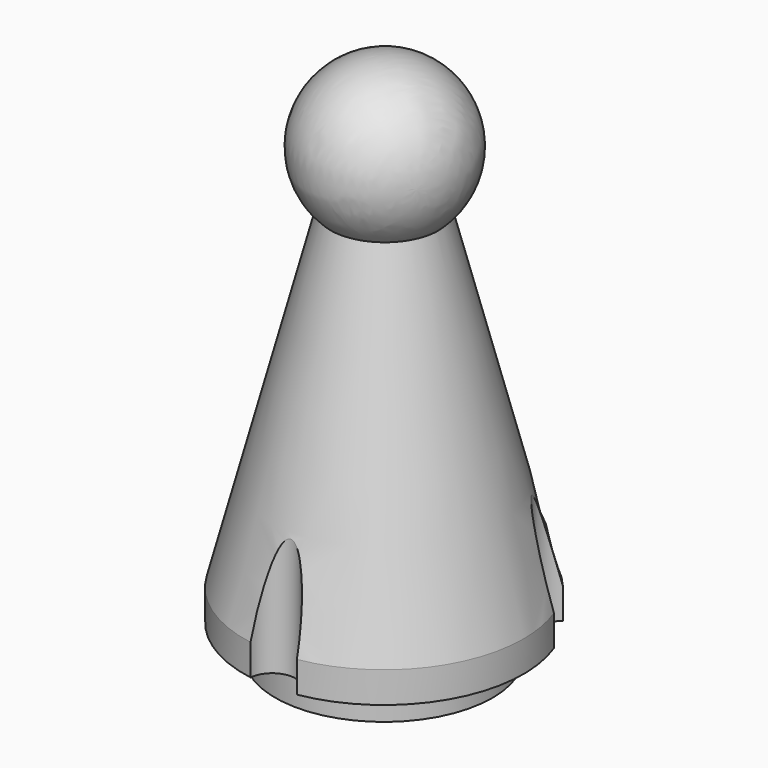
from build123d import *

# Parameters (mm, degrees)
F0_R      = 7
F1_DEPTH  = 2
F2_R      = 9
F2_R_2    = 7
F3_DEPTH  = 2
F3_FACE_R = 9
F5_R      = 2.5
F10_DEPTH = 32.0438996087


with BuildPart() as f1:
    # F0 (on Top) → F1 (new body)
    with BuildSketch(Plane.XY):
        Circle(F0_R)
    extrude(amount=F1_DEPTH)

    # F2 (on face) → F3 (join)
    with BuildSketch(Plane.XY.offset(2)):
        Circle(F2_R)
        Circle(F2_R_2, mode=Mode.SUBTRACT)
        Circle(F2_R_2)
    extrude(amount=F3_DEPTH)

    # F3_face (on face) → F6 section 0
    with BuildSketch(Plane.XY.offset(4)):
        Circle(F3_FACE_R)
    # F5 (on offset) → F6 section 1
    with BuildSketch(Plane.XY.offset(29)):
        Circle(F5_R)
    loft()

    # F7 (on face) → F8 (revolve)
    with BuildSketch(Plane.XY.offset(29)):
        with BuildLine():
            Line((-2.0789221356, 1.3885541956), (-4.181520278, 2.7413296345))
            ThreePointArc((-4.181520278, 2.7413296345), (-2.7053516984, -4.2048867033), (4.2279435815, -2.669174605))
            Line((4.2279435815, -2.669174605), (2.1253454391, -1.3163991661))
            ThreePointArc((2.1253454391, -1.3163991661), (-1.3526758492, -2.1024433517), (-2.0789221356, 1.3885541956))
        make_face()
    revolve(axis=Axis((0.0232116518, 0.0360775148, 29), (0.8409773407, -0.5410703397, 0)))

    # F9 (on face) → F10 (cut, through all)
    with BuildSketch(Plane(origin=(0, 0, 2), x_dir=(1, 0, 0), z_dir=(0, 0, -1))):
        with BuildLine():
            ThreePointArc((9.2942286341, -4.5), (9.0608594369, -3.6964787437), (8.433366755, -3.1429803014))
            ThreePointArc((8.433366755, -3.1429803014), (7.7942286341, -4.5), (6.9385841621, -5.7320196986))
            ThreePointArc((6.9385841621, -5.7320196986), (8.4894024584, -5.8291852218), (9.2942286341, -4.5))
        make_face()
        with BuildLine():
            ThreePointArc((-6.9385841621, -5.7320196986), (-7.7942286341, -4.5), (-8.433366755, -3.1429803014))
            ThreePointArc((-8.433366755, -3.1429803014), (-9.0932667397, -5.25), (-6.9385841621, -5.7320196986))
        make_face()
        with BuildLine():
            ThreePointArc((1.4947825929, 8.875), (0, 9), (-1.4947825929, 8.875))
            ThreePointArc((-1.4947825929, 8.875), (0, 7.5), (1.4947825929, 8.875))
        make_face()
        with BuildLine():
            ThreePointArc((6.9385841621, -5.7320196986), (7.7942286341, -4.5), (8.433366755, -3.1429803014))
            ThreePointArc((8.433366755, -3.1429803014), (6.4951905284, -3.75), (6.9385841621, -5.7320196986))
        make_face()
        with BuildLine():
            ThreePointArc((1.4947825929, 8.875), (1.4986950806, 8.937445581), (1.5, 9))
            ThreePointArc((1.5, 9), (-0.062554419, 10.4986950806), (-1.4947825929, 8.875))
            ThreePointArc((-1.4947825929, 8.875), (0, 9), (1.4947825929, 8.875))
        make_face()
        with BuildLine():
            ThreePointArc((-6.2942286341, -4.5), (-6.9907073778, -3.2333691972), (-8.433366755, -3.1429803014))
            ThreePointArc((-8.433366755, -3.1429803014), (-7.7942286341, -4.5), (-6.9385841621, -5.7320196986))
            ThreePointArc((-6.9385841621, -5.7320196986), (-6.4650434122, -5.1951738244), (-6.2942286341, -4.5))
        make_face()
    extrude(amount=-F10_DEPTH, mode=Mode.SUBTRACT)


solid = f1.part
